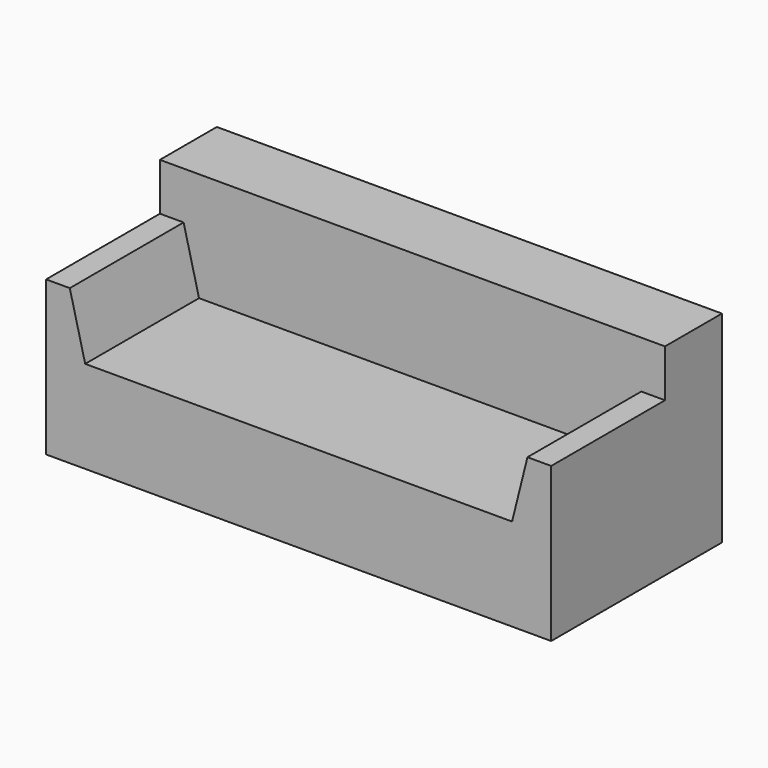
from build123d import *

# Parameters (mm, degrees)
SKETCH_W     = 2130
SKETCH_H     = 900
PAD_DEPTH    = 850
POCKET_DEPTH = 600


with BuildPart() as part:
    # Sketch → Pad (new body)
    with BuildSketch(Plane.XY):
        with Locations((1065, 450)):
            Rectangle(SKETCH_W, SKETCH_H)
    extrude(amount=PAD_DEPTH)

    # Sketch001 (on Face1 of Pad) → Pocket (cut)
    with BuildSketch(Plane.XZ):
        Polygon((0, 650), (100, 650), (164.921688, 390), (1965.078312, 390), (2030, 650), (2130, 650), (2130, 850), (0, 850), align=None)
    extrude(amount=-POCKET_DEPTH, mode=Mode.SUBTRACT)


solid = part.part
